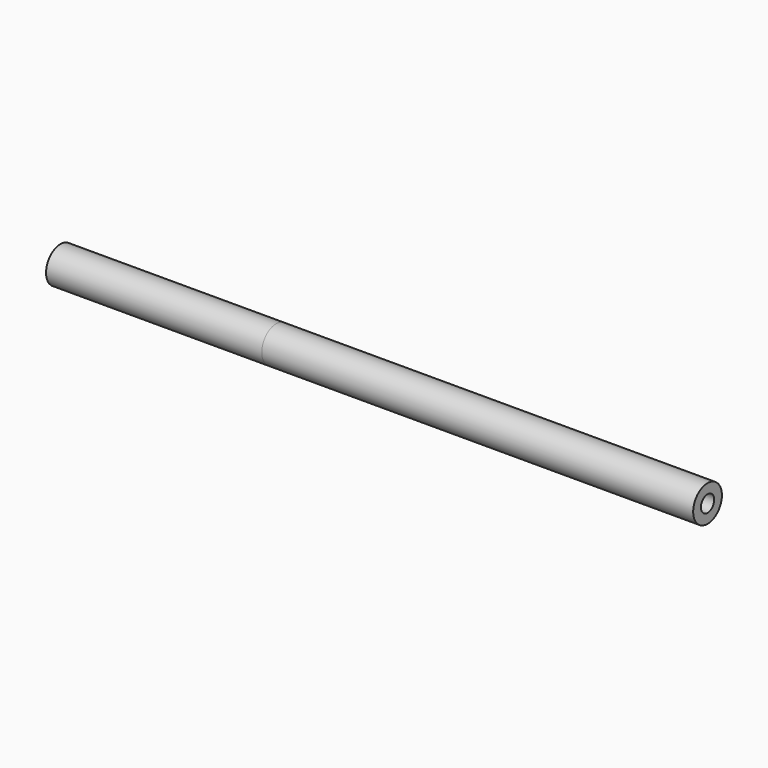
from build123d import *

# Parameters (mm, degrees)
F0_R     = 2.5
F0_R_2   = 1.15
F1_DEPTH = 60
F2_R     = 2.5
F2_R_2   = 1.15
F3_DEPTH = 30


with BuildPart() as f1:
    # F0 (on Right) → F1 (new body)
    with BuildSketch(Plane.YZ):
        Circle(F0_R)
        Circle(F0_R_2, mode=Mode.SUBTRACT)
    extrude(amount=F1_DEPTH)


with BuildPart() as f3:
    # F2 (on Right) → F3 (new body)
    with BuildSketch(Plane.YZ):
        Circle(F2_R)
        Circle(F2_R_2, mode=Mode.SUBTRACT)
    extrude(amount=-F3_DEPTH)


solid = Compound([f1.part, f3.part])
